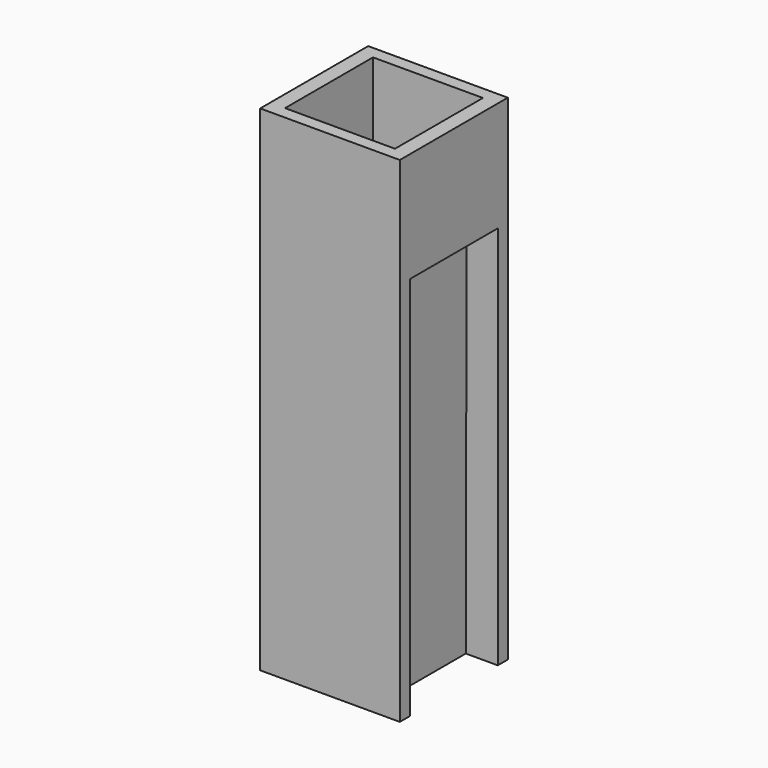
from build123d import *

# Parameters (mm, degrees)
F1_DEPTH = 10
F2_W     = 12.7
F2_H     = 45
F3_DEPTH = 1.14
F4_W     = 12.7
F4_H     = 45
F5_DEPTH = 1.14


with BuildPart() as f1:
    # F0 (on Front) → F1 (new body)
    with BuildSketch(Plane.XZ):
        Polygon((-5, 45), (-6.35, 45), (-6.35, 35), (-3.511587, 33), (-3.44, 0), (0, 0), (0, 1.69), (-2.35, 1.69), (-2.418905, 33.453385), (-5, 35.272074), align=None)
        Polygon((0, 1.69), (0, 0), (3.44, 0), (3.511587, 33), (6.35, 35), (6.35, 45), (5, 45), (5, 35.272074), (2.418905, 33.453385), (2.35, 1.69), align=None)
    extrude(amount=F1_DEPTH)

    # F2 (on Front) → F3 (join)
    with BuildSketch(Plane.XZ):
        with Locations((0, 22.5)):
            Rectangle(F2_W, F2_H)
    extrude(amount=-F3_DEPTH)

    # F4 (on face) → F5 (join)
    with BuildSketch(Plane.XZ.offset(10)):
        with Locations((0, 22.5)):
            Rectangle(F4_W, F4_H)
    extrude(amount=F5_DEPTH)


solid = f1.part
